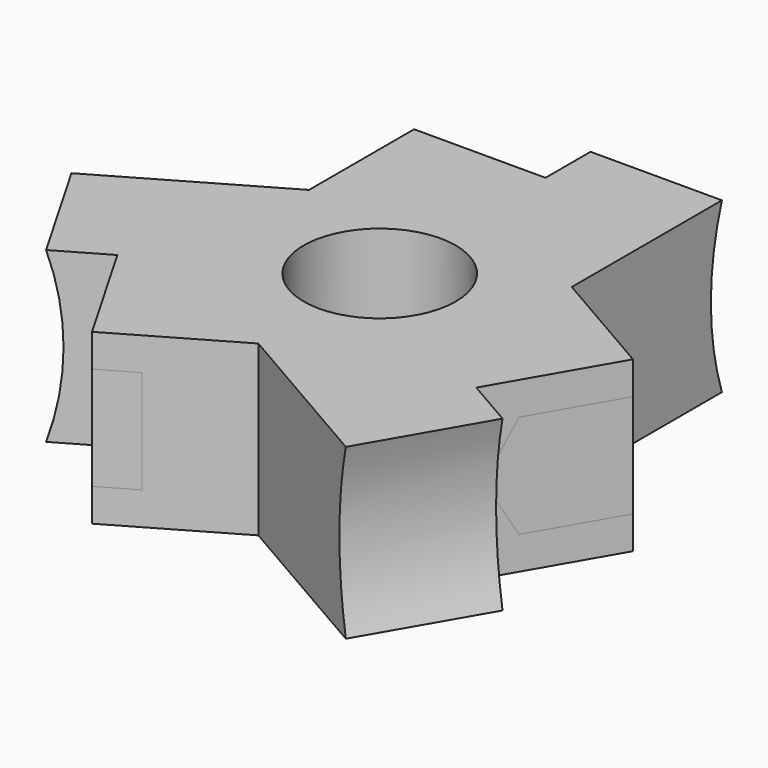
from build123d import *

# Parameters (mm, degrees)
SKETCH_R                                  = 4.05
EXTRUDE_DEPTH                             = 9
POCKET_DEPTH                              = 22.6612540378
SKETCH002_W                               = 3
SKETCH002_H                               = 9
POCKET001_DEPTH                           = 7
SKETCH003_R                               = 1.55
POCKET002_DEPTH                           = 6
POCKET003_DEPTH                           = 26.9913810567
SKETCH005_W                               = 3
SKETCH005_H                               = 9
POCKET004_DEPTH                           = 7
SKETCH006_R                               = 1.55
POCKET005_DEPTH                           = 6
POCKET006_DEPTH                           = 26.1612540378
SKETCH008_W                               = 3
SKETCH008_H                               = 9
POCKET007_DEPTH                           = 7
SKETCH009_R                               = 1.55
POCKET008_DEPTH                           = 6
EXTRUDE001_DEPTH                          = 2.1
EXTRUDE001_ONTO_SKETCH010_ROLL_ANGLE      = 90.0000000001
EXTRUDE001_ONTO_SKETCH010_PLACEMENT_ANGLE = 180
EXTRUDE002_DEPTH                          = 2.1
EXTRUDE002_ONTO_SKETCH010_ROLL_ANGLE      = 90.0000000001
EXTRUDE002_ONTO_SKETCH010_PLACEMENT_ANGLE = 180
EXTRUDE002_PLACEMENT_ANGLE                = 120
EXTRUDE003_DEPTH                          = 2.1
EXTRUDE003_ONTO_SKETCH010_ROLL_ANGLE      = 90.0000000001
EXTRUDE003_ONTO_SKETCH010_PLACEMENT_ANGLE = 180
EXTRUDE003_PLACEMENT_ANGLE                = 120


with BuildPart() as pocket008:
    # Sketch → Extrude (new body)
    with BuildSketch(Plane.XY):
        Polygon((-8.6602540378, -13.0829037687), (-15.6602540378, -0.9585481157), (-7, 4.0414518843), (-7, 14.0414518843), (7, 14.0414518843), (7, 4.0414518843), (15.6602540378, -0.9585481157), (8.6602540378, -13.0829037687), (0, -8.0829037687), align=None)
        Circle(SKETCH_R, mode=Mode.SUBTRACT)
    extrude(amount=EXTRUDE_DEPTH)

    # Sketch001 → Pocket (cut, through all)
    with BuildSketch(Plane(origin=(-7, 0, 0), x_dir=(0, -1, 0), z_dir=(-1, 0, 0))):
        with BuildLine():
            Line((-14.0414518843, 9), (-14.0414518843, 0))
            ThreePointArc((-14.0414518843, 0), (-13.3068348457, 4.5), (-14.0414518843, 9))
        make_face()
    extrude(amount=-POCKET_DEPTH, mode=Mode.SUBTRACT)

    # Sketch002 → Pocket001 (cut)
    with BuildSketch(Plane(origin=(-7, 0, 0), x_dir=(0, -1, 0), z_dir=(-1, 0, 0))):
        with Locations((-12.5414518843, 4.5)):
            Rectangle(SKETCH002_W, SKETCH002_H)
    extrude(amount=-POCKET001_DEPTH, mode=Mode.SUBTRACT)

    # Sketch003 → Pocket002 (cut)
    with BuildSketch(Plane(origin=(0, 11.0414518843, 0), x_dir=(-1, 0, 0), z_dir=(0, 1, 0))):
        with Locations((3.5, 4.5)):
            Circle(SKETCH003_R)
    extrude(amount=-POCKET002_DEPTH, mode=Mode.SUBTRACT)

    # Sketch004 → Pocket003 (cut, through all)
    with BuildSketch(Plane(origin=(3.5, -6.0621778265, 0), x_dir=(0.8660254038, 0.5, 0), z_dir=(0.5, -0.8660254038, 0))):
        with BuildLine():
            Line((-14.0414518843, 9), (-14.0414518843, 0))
            ThreePointArc((-14.0414518843, 0), (-13.3068348457, 4.5), (-14.0414518843, 9))
        make_face()
    extrude(amount=-POCKET003_DEPTH, mode=Mode.SUBTRACT)

    # Sketch005 → Pocket004 (cut)
    with BuildSketch(Plane(origin=(3.5, -6.0621778265, 0), x_dir=(0.8660254038, 0.5, 0), z_dir=(0.5, -0.8660254038, 0))):
        with Locations((-12.5414518843, 4.5)):
            Rectangle(SKETCH005_W, SKETCH005_H)
    extrude(amount=-POCKET004_DEPTH, mode=Mode.SUBTRACT)

    # Sketch006 → Pocket005 (cut)
    with BuildSketch(Plane(origin=(-9.5621778265, -5.5207259422, 0), x_dir=(0.5, -0.8660254038, 0), z_dir=(-0.8660254038, -0.5, 0))):
        with Locations((3.5, 4.5)):
            Circle(SKETCH006_R)
    extrude(amount=-POCKET005_DEPTH, mode=Mode.SUBTRACT)

    # Sketch007 → Pocket006 (cut, through all)
    with BuildSketch(Plane(origin=(3.5, 6.0621778265, 0), x_dir=(-0.8660254038, 0.5, 0), z_dir=(0.5, 0.8660254038, 0))):
        with BuildLine():
            ThreePointArc((-14.0414518843, 0), (-13.3068348457, 4.5), (-14.0414518843, 9))
            Line((-14.0414518843, 9), (-14.0414518843, 0))
        make_face()
    extrude(amount=-POCKET006_DEPTH, mode=Mode.SUBTRACT)

    # Sketch008 → Pocket007 (cut)
    with BuildSketch(Plane(origin=(3.5, 6.0621778265, 0), x_dir=(-0.8660254038, 0.5, 0), z_dir=(0.5, 0.8660254038, 0))):
        with Locations((-12.5414518843, 4.5)):
            Rectangle(SKETCH008_W, SKETCH008_H)
    extrude(amount=-POCKET007_DEPTH, mode=Mode.SUBTRACT)

    # Sketch009 → Pocket008 (cut)
    with BuildSketch(Plane(origin=(9.5621778265, -5.5207259422, 0), x_dir=(0.5, 0.8660254038, 0), z_dir=(0.8660254038, -0.5, 0))):
        with Locations((3.5, 4.5)):
            Circle(SKETCH009_R)
    extrude(amount=-POCKET008_DEPTH, mode=Mode.SUBTRACT)


with BuildPart() as extrude001:
    # Sketch010 as drawn → Extrude001 (new)
    with BuildSketch(Plane.XY):
        Polygon((0.3245735195, 4.5), (1.9122867597, 1.75), (7, 1.75), (7, 7.25), (1.9122867597, 7.25), align=None)
    extrude(amount=-EXTRUDE001_DEPTH)


with BuildPart() as extrude001_1:
    # Extrude001 onto Sketch010 roll: moved
    add(extrude001.part.rotate(Axis((0, 0, 0), (1, 0, 0)), EXTRUDE001_ONTO_SKETCH010_ROLL_ANGLE))


with BuildPart() as extrude001_2:
    # Extrude001 onto Sketch010 placement: moved
    add(extrude001_1.part.moved(Location((0, 11.0414518843, 0))).rotate(Axis((0, 11.0414518843, 0), (0, 0, 1)), EXTRUDE001_ONTO_SKETCH010_PLACEMENT_ANGLE))


with BuildPart() as extrude001_3:
    # Extrude001 placement: moved
    add(extrude001_2.part.moved(Location((0, -3, 0))))


with BuildPart() as extrude002:
    # Sketch010 as drawn → Extrude002 (new)
    with BuildSketch(Plane.XY):
        Polygon((0.3245735195, 4.5), (1.9122867597, 1.75), (7, 1.75), (7, 7.25), (1.9122867597, 7.25), align=None)
    extrude(amount=-EXTRUDE002_DEPTH)


with BuildPart() as extrude002_1:
    # Extrude002 onto Sketch010 roll: moved
    add(extrude002.part.rotate(Axis((0, 0, 0), (1, 0, 0)), EXTRUDE002_ONTO_SKETCH010_ROLL_ANGLE))


with BuildPart() as extrude002_2:
    # Extrude002 onto Sketch010 placement: moved
    add(extrude002_1.part.moved(Location((0, 11.0414518843, 0))).rotate(Axis((0, 11.0414518843, 0), (0, 0, 1)), EXTRUDE002_ONTO_SKETCH010_PLACEMENT_ANGLE))


with BuildPart() as extrude002_3:
    # Extrude002 placement: moved
    add(extrude002_2.part.rotate(Axis((0, 0, 0), (0, 0, 1)), EXTRUDE002_PLACEMENT_ANGLE))


with BuildPart() as extrude003:
    # Sketch010 as drawn → Extrude003 (new)
    with BuildSketch(Plane.XY):
        Polygon((0.3245735195, 4.5), (1.9122867597, 1.75), (7, 1.75), (7, 7.25), (1.9122867597, 7.25), align=None)
    extrude(amount=-EXTRUDE003_DEPTH)


with BuildPart() as extrude003_1:
    # Extrude003 onto Sketch010 roll: moved
    add(extrude003.part.rotate(Axis((0, 0, 0), (1, 0, 0)), EXTRUDE003_ONTO_SKETCH010_ROLL_ANGLE))


with BuildPart() as extrude003_2:
    # Extrude003 onto Sketch010 placement: moved
    add(extrude003_1.part.moved(Location((0, 11.0414518843, 0))).rotate(Axis((0, 11.0414518843, 0), (0, 0, 1)), EXTRUDE003_ONTO_SKETCH010_PLACEMENT_ANGLE))


with BuildPart() as extrude003_3:
    # Extrude003 placement: moved
    add(extrude003_2.part.rotate(Axis((0, 0, 0), (0, 0, -1)), EXTRUDE003_PLACEMENT_ANGLE))


solid = Compound([pocket008.part, extrude001_3.part, extrude002_3.part, extrude003_3.part])
